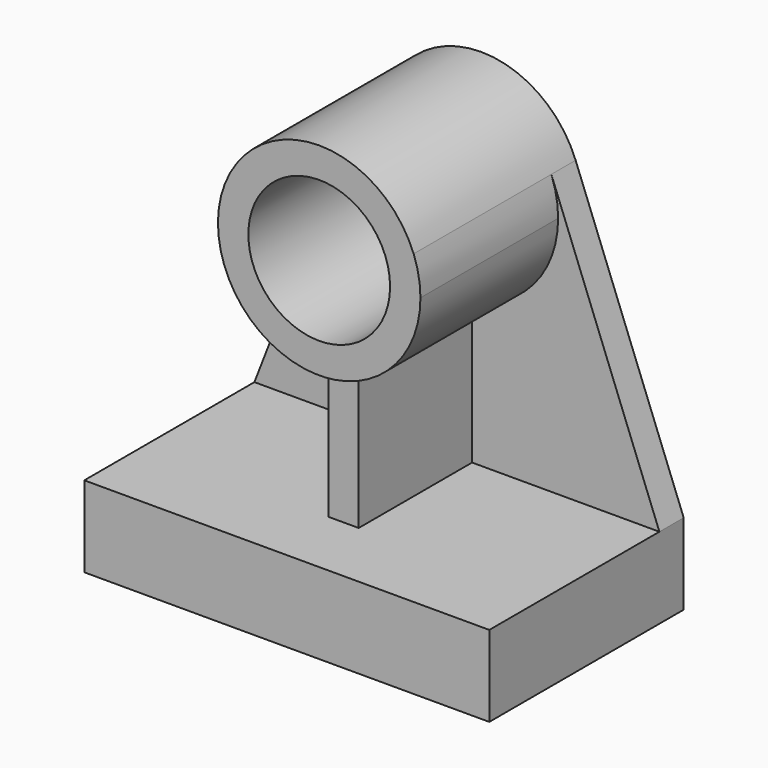
from build123d import *

# Parameters (mm, degrees)
F1_DEPTH = 152.4
F2_DEPTH = 19.05
F0_R     = 44.45
F3_DEPTH = 127
F4_DEPTH = 107.95


with BuildPart() as f1:
    # F0 (on Front) → F1 (new body)
    with BuildSketch(Plane.XZ):
        Polygon((127, -203.2), (127, -152.4), (9.525, -152.4), (-9.525, -152.4), (-127, -152.4), (-127, -203.2), align=None)
    extrude(amount=F1_DEPTH)

    # F0 (on Front) → F2 (join)
    with BuildSketch(Plane.XZ):
        with BuildLine():
            ThreePointArc((59.227747, 22.898122), (62.4228, 11.646632), (63.5, 0))
            ThreePointArc((63.5, 0), (48.151259, -41.396935), (9.525, -62.781561))
            Line((9.525, -62.781561), (9.525, -152.4))
            Line((9.525, -152.4), (127, -152.4))
            Line((127, -152.4), (59.227747, 22.898122))
        make_face()
        with BuildLine():
            ThreePointArc((-9.525, -62.781561), (-54.927107, -31.863191), (-59.227747, 22.898122))
            Line((-59.227747, 22.898122), (-127, -152.4))
            Line((-127, -152.4), (-9.525, -152.4))
            Line((-9.525, -152.4), (-9.525, -62.781561))
        make_face()
    extrude(amount=F2_DEPTH)

    # F0 (on Front) → F3 (join)
    with BuildSketch(Plane.XZ):
        with BuildLine():
            ThreePointArc((9.525, -62.781561), (48.151259, -41.396935), (63.5, 0))
            ThreePointArc((63.5, 0), (62.4228, 11.646632), (59.227747, 22.898122))
            ThreePointArc((59.227747, 22.898122), (0, 63.5), (-59.227747, 22.898122))
            ThreePointArc((-59.227747, 22.898122), (-54.927107, -31.863191), (-9.525, -62.781561))
            ThreePointArc((-9.525, -62.781561), (0, -63.5), (9.525, -62.781561))
        make_face()
        Circle(F0_R, mode=Mode.SUBTRACT)
    extrude(amount=F3_DEPTH)

    # F0 (on Front) → F4 (join)
    with BuildSketch(Plane.XZ):
        with BuildLine():
            Line((9.525, -152.4), (9.525, -62.781561))
            ThreePointArc((9.525, -62.781561), (0, -63.5), (-9.525, -62.781561))
            Line((-9.525, -62.781561), (-9.525, -152.4))
            Line((-9.525, -152.4), (9.525, -152.4))
        make_face()
    extrude(amount=F4_DEPTH)


solid = f1.part
